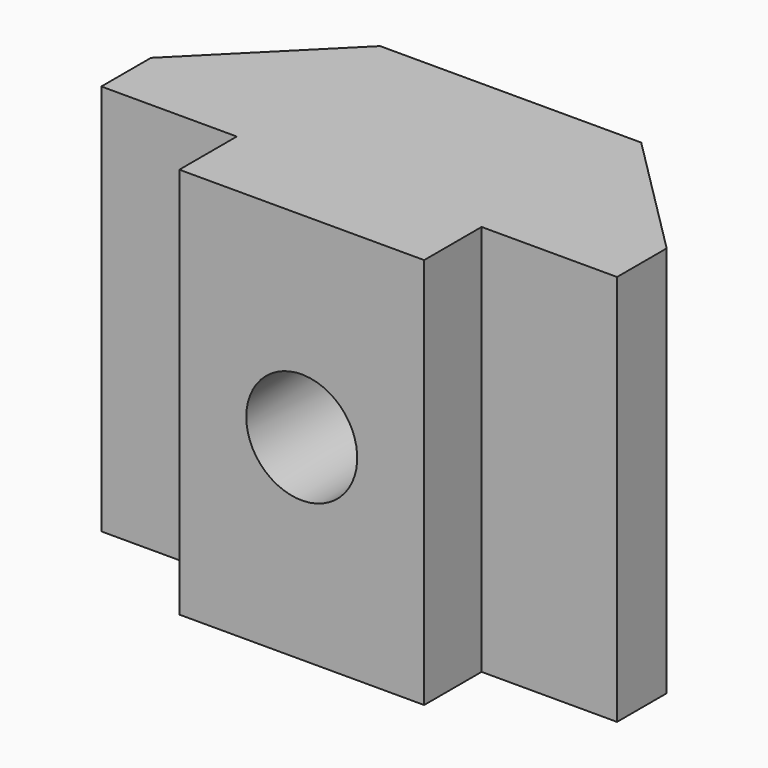
from build123d import *

# Parameters (mm, degrees)
PAD005_DEPTH    = 12
POCKET003_DEPTH = 4.5
SKETCH012_R     = 1.7
HOLE003_DEPTH   = 25


with BuildPart() as part:
    # Sketch010 → Pad005 (new body)
    with BuildSketch(Plane.XY):
        Polygon((0, 0), (0, 8), (-4, 8), (-7.9, 4.1), (-7.9, 2.2), (-3.75, 2.2), (-3.75, 0), align=None)
    pad005 = extrude(amount=PAD005_DEPTH)

    # Mirrored003: Pad005 across Sketch010 V_Axis
    add(pad005.mirror(Plane(origin=(0, 0, 0), x_dir=(0, 0, 1), z_dir=(1, 0, 0))))

    # Sketch011 (on DatumPlane) → Pocket003 (cut)
    with BuildSketch(Plane(origin=(0, 8, 0), x_dir=(-1, 0, 0), z_dir=(0, 1, 0))):
        Polygon((0, 2.535898), (3, 4.267949), (3, 7.732051), (0, 9.464102), (-3, 7.732051), (-3, 4.267949), align=None)
    extrude(amount=-POCKET003_DEPTH, mode=Mode.SUBTRACT)

    # Sketch012 (on DatumPlane) → Hole003 (cut)
    with BuildSketch(Plane(origin=(0, 8, 0), x_dir=(-1, 0, 0), z_dir=(0, 1, 0))):
        with Locations((0, 6)):
            Circle(SKETCH012_R)
    extrude(amount=-HOLE003_DEPTH, mode=Mode.SUBTRACT)


solid = part.part
